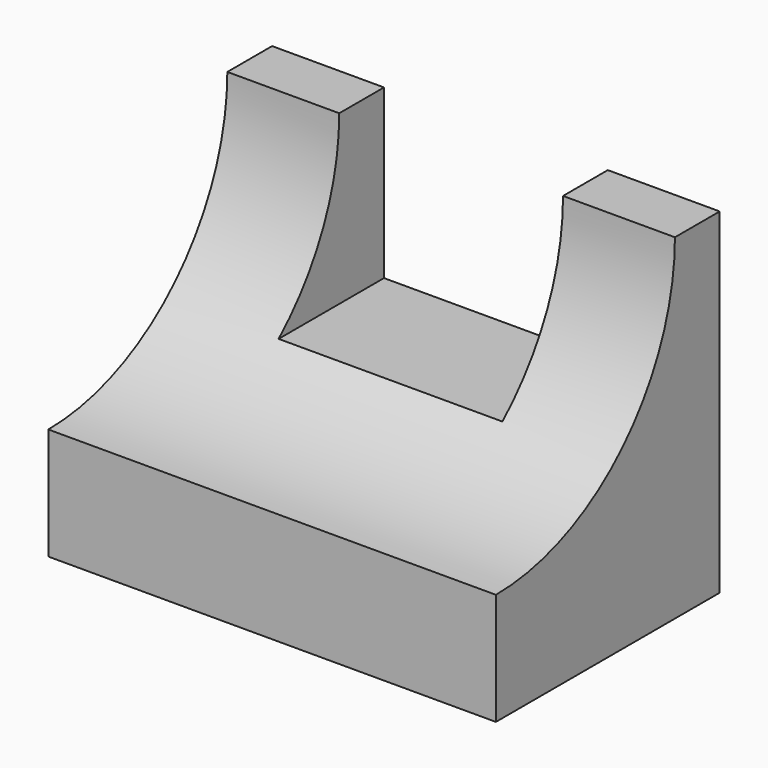
from build123d import *

# Parameters (mm, degrees)
F0_W     = 50.8
F0_H     = 38.1
F1_DEPTH = 31.75
F2_W     = 25.4
F2_H     = 19.05
F3_DEPTH = 31.751
F5_DEPTH = 50.8


with BuildPart() as f1:
    # F0 (on Front) → F1 (new body)
    with BuildSketch(Plane.XZ):
        with Locations((25.4, 19.05)):
            Rectangle(F0_W, F0_H)
    extrude(amount=F1_DEPTH)

    # F2 (on face) → F3 (cut, through all)
    with BuildSketch(Plane.XZ.offset(31.75)):
        with Locations((25.4, 28.575)):
            Rectangle(F2_W, F2_H)
    extrude(amount=-F3_DEPTH, mode=Mode.SUBTRACT)

    # F4 (on face) → F5 (cut)
    with BuildSketch(Plane.YZ.offset(50.8)):
        with BuildLine():
            ThreePointArc((-31.75, 12.7), (-13.789488, 20.139488), (-6.35, 38.1))
            Line((-6.35, 38.1), (-31.75, 38.1))
            Line((-31.75, 38.1), (-31.75, 12.7))
        make_face()
        with BuildLine():
            Line((-31.75, 38.1), (-6.35, 38.1))
            ThreePointArc((-6.35, 38.1), (-49.710512, 56.060512), (-31.75, 12.7))
            Line((-31.75, 12.7), (-31.75, 38.1))
        make_face()
    extrude(amount=-F5_DEPTH, mode=Mode.SUBTRACT)


solid = f1.part
